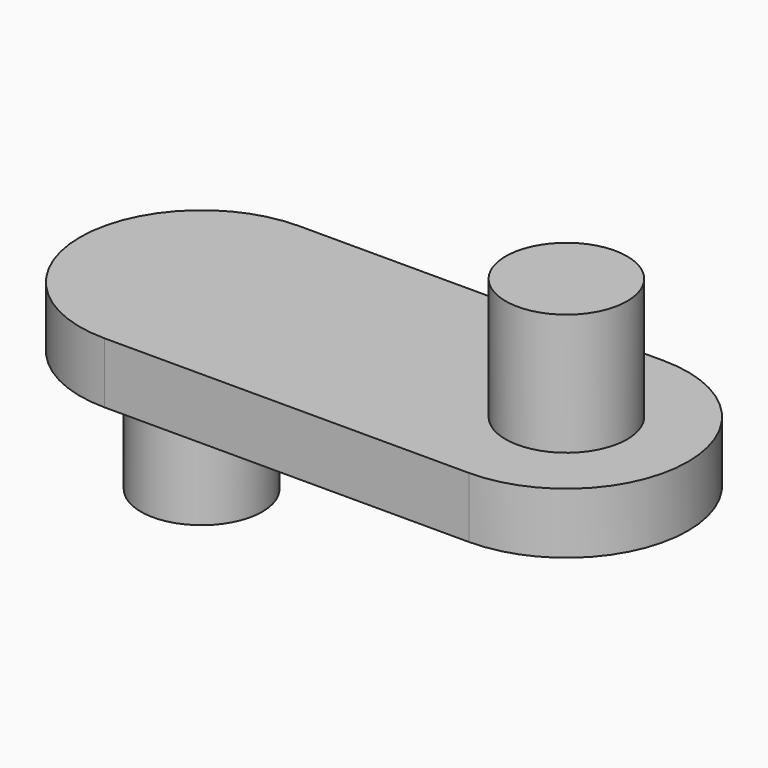
from build123d import *

# Parameters (mm, degrees)
F1_DEPTH = 5
F2_R     = 5
F3_DEPTH = 10
F4_R     = 5
F5_DEPTH = 15


with BuildPart() as f1:
    # F0 (on Top) → F1 (new body)
    with BuildSketch(Plane.XY):
        with BuildLine():
            ThreePointArc((0, 20), (-10, 10), (0, 0))
            Line((0, 0), (30, 0))
            ThreePointArc((30, 0), (40, 10), (30, 20))
            Line((30, 20), (0, 20))
        make_face()
    extrude(amount=F1_DEPTH)

    # F2 (on Top) → F3 (join)
    with BuildSketch(Plane.XY):
        with Locations((0, 10)):
            Circle(F2_R)
    extrude(amount=-F3_DEPTH)

    # F4 (on Top) → F5 (join)
    with BuildSketch(Plane.XY):
        with Locations((30, 10)):
            Circle(F4_R)
    extrude(amount=F5_DEPTH)


solid = f1.part
